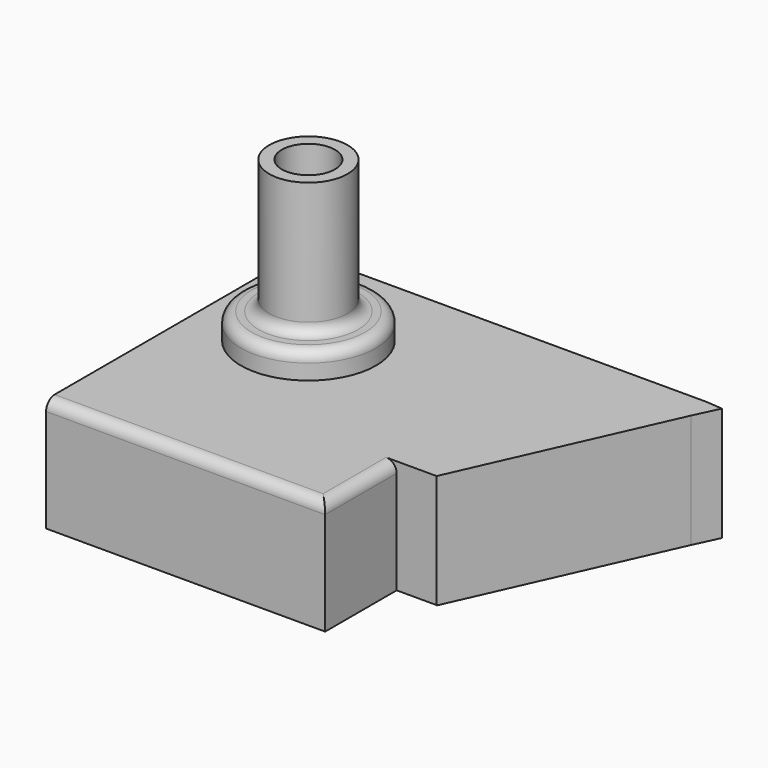
from build123d import *

# Parameters (mm, degrees)
F0_W      = 177.8
F0_H      = 152.4
F1_DEPTH  = 53.975
F2_W      = 44.4769412279
F2_H      = 42.7047908306
F3_DEPTH  = 57.28848
F4_R      = 5.08
F5_DEPTH  = 25.4
F7_DEPTH  = 53.071
F8_R      = 18.7092621325
F9_DEPTH  = 76.2
F11_D     = 25.4
F11_DEPTH = 101.6
F11_TIP   = 7.6309298617
F12_R     = 32.2387341202
F13_DEPTH = 12.41914
F14_R     = 5.08
F15_DEPTH = 0.30507
F16_DEPTH = 1.0725


with BuildPart() as f1:
    # F0 (on Top) → F1 (new body)
    with BuildSketch(Plane.XY):
        with Locations((132.4584333658, -75.6843322992)):
            Rectangle(F0_W, F0_H)
    extrude(amount=F1_DEPTH)

    # F2 (on face) → F3 (cut)
    with BuildSketch(Plane.XY.offset(53.975)):
        with Locations((199.1199627519, -130.5319368839)):
            Rectangle(F2_W, F2_H)
    extrude(amount=-F3_DEPTH, mode=Mode.SUBTRACT)

    # F4
    f4_edges = [f1.edges().sort_by_distance(p)[0] for p in [
        (176.881492, -130.531937, 53.975),
        (110.219963, -151.884332, 53.975),
    ]]
    fillet(f4_edges, radius=F4_R)

    # F5 (cut): a face of the model
    f5_faces = [f1.faces().sort_by_distance(p)[0] for p in [
        (221.3584333658, -54.3319368839, 26.9875),
    ]]
    extrude(f5_faces, amount=-F5_DEPTH, mode=Mode.SUBTRACT)

    # F6 (on face) → F7 (join)
    with BuildSketch(Plane.XY.offset(53.975)):
        Polygon((195.9584333658, 0.5156677008), (195.9584333658, -109.1795414686), (239.5593672991, -11.6872834042), (245.01273036, -0.1214179429), (236.9844764471, 0.5156677008), align=None)
    extrude(amount=-F7_DEPTH)

    # F8 (on face) → F9 (join)
    with BuildSketch(Plane.XY.offset(53.975)):
        with Locations((90.3183594346, -53.666587919)):
            Circle(F8_R)
    extrude(amount=F9_DEPTH)

    # F11
    with Locations(Plane.XY.offset(130.175)):
        with Locations((90.3183594346, -53.666587919)):
            Hole(F11_D / 2, depth=F11_DEPTH)
            with Locations((0, 0, -(F11_DEPTH + F11_TIP / 2))):  # 118° drill point
                Cone(0, F11_D / 2, F11_TIP, mode=Mode.SUBTRACT)

    # F12 (on face) → F13 (join)
    with BuildSketch(Plane.XY.offset(53.975)):
        with Locations((90.3183594346, -53.666587919)):
            Circle(F12_R)
    extrude(amount=F13_DEPTH)

    # F14
    f14_edges = [f1.edges().sort_by_distance(p)[0] for p in [
        (58.079625, -53.666588, 66.39414),
        (71.609097, -53.666588, 66.39414),
    ]]
    fillet(f14_edges, radius=F14_R)

    # F15 (add): faces of the model
    f15_faces = [f1.faces().sort_by_distance(p)[0] for p in [
        (212.3023430426, -36.0634157102, 0.904),
        (117.3351859078, -73.6905388833, 0),
    ]]
    extrude(f15_faces, amount=F15_DEPTH)

    # F16 (add): a face of the model
    f16_faces = [f1.faces().sort_by_distance(p)[0] for p in [
        (212.3023430426, -36.0634157102, 0.59893),
    ]]
    extrude(f16_faces, amount=F16_DEPTH)


solid = f1.part
